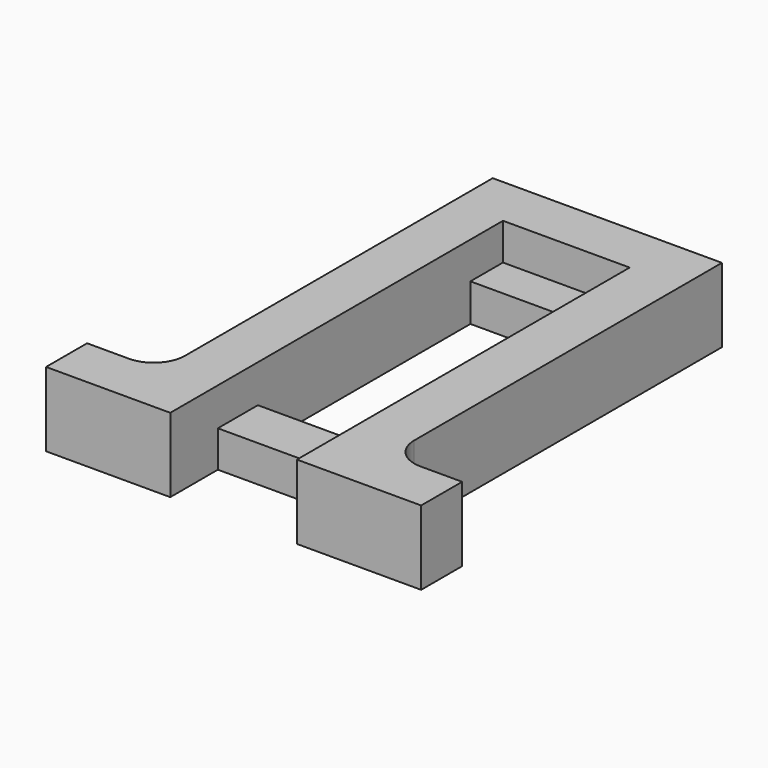
from build123d import *

# Parameters (mm, degrees)
F0_W     = 36
F0_H     = 44.84
F1_DEPTH = 7.13
F2_W     = 7
F2_H     = 39.92
F3_DEPTH = 7.13
F4_W     = 12.16
F4_H     = 36.01
F5_DEPTH = 7.13
F6_W     = 12.16
F6_H     = 3.91
F7_DEPTH = 3.53
F8_W     = 12.16
F8_H     = 4.8
F9_DEPTH = 3.5
F10_R    = 3


with BuildPart() as f1:
    # F0 (on Top) → F1 (new body)
    with BuildSketch(Plane.XY):
        with Locations((2.410514, 5.175292)):
            Rectangle(F0_W, F0_H)
    extrude(amount=F1_DEPTH)

    # F2 (on face) → F3 (cut)
    with BuildSketch(Plane.XY.offset(7.13)):
        with Locations((-12.089486, 7.635292)):
            Rectangle(F2_W, F2_H)
        with Locations((16.910514, 7.635292)):
            Rectangle(F2_W, F2_H)
    extrude(amount=-F3_DEPTH, mode=Mode.SUBTRACT)

    # F4 (on face) → F5 (cut)
    with BuildSketch(Plane.XY.offset(7.13)):
        with Locations((2.410514, 0.760292)):
            Rectangle(F4_W, F4_H)
    extrude(amount=-F5_DEPTH, mode=Mode.SUBTRACT)

    # F6 (on face) → F7 (cut)
    with BuildSketch(Plane.XY.offset(7.13)):
        with Locations((2.410514, 20.720292)):
            Rectangle(F6_W, F6_H)
    extrude(amount=-F7_DEPTH, mode=Mode.SUBTRACT)

    # F8 (on face) → F9 (join)
    with BuildSketch(Plane(origin=(0, 0, 0), x_dir=(1, 0, 0), z_dir=(0, 0, -1))):
        with Locations((2.410514, 9.134708)):
            Rectangle(F8_W, F8_H)
    extrude(amount=-F9_DEPTH)

    # F10
    f10_edges = [f1.edges().sort_by_distance(p)[0] for p in [
        (13.410514, -12.324708, 3.565),
        (-8.589486, -12.324708, 3.565),
    ]]
    fillet(f10_edges, radius=F10_R)


solid = f1.part
